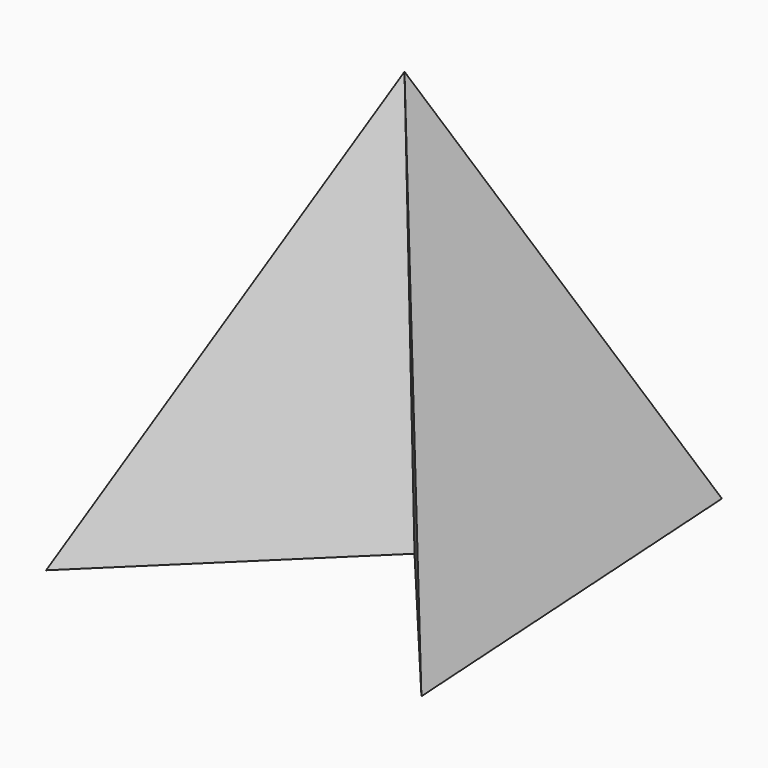
from build123d import *


with BuildPart() as f3:
    # F0 (on Top) → F3 section 0
    with BuildSketch(Plane.XY, mode=Mode.PRIVATE) as f3_s0:
        Polygon((-39.34918, 70.391312), (-63.541643, 30.750657), (-39.34918, -68.059504), (14.865248, -15.30246), (55.380326, -63.687377), (48.676394, 42.992625), (-11.969542, 6.893852), align=None)
    loft([f3_s0.sketch, Vertex(0, 0, 100)])


solid = f3.part
